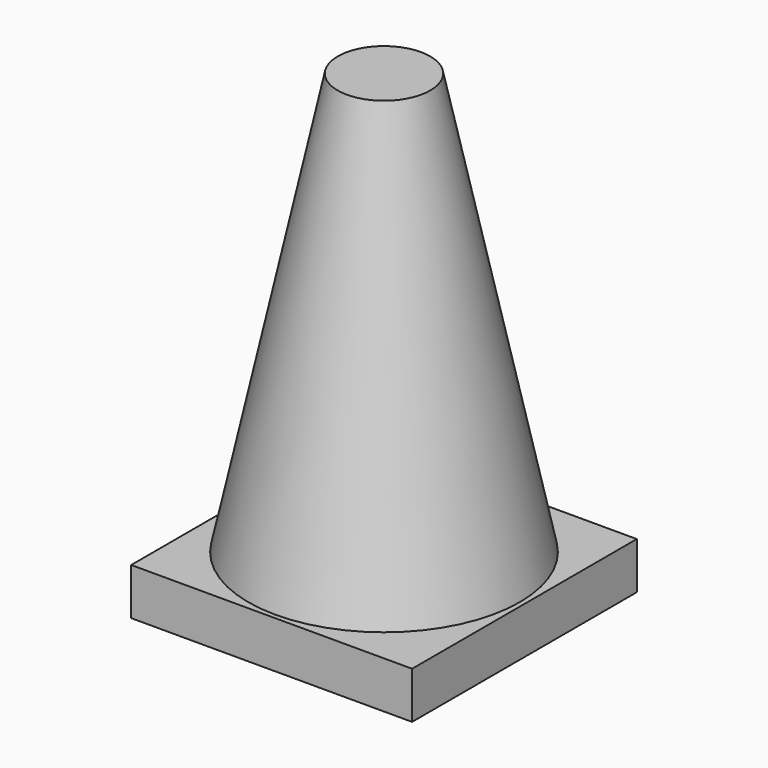
from build123d import *

# Parameters (mm, degrees)
F2_DEPTH = 15
F3_R     = 14.5033016781
F4_DEPTH = 45
F4_TAPER = 12


with BuildPart() as f2:
    # F1 (on Front) → F2 (new body, symmetric)
    with BuildSketch(Plane.XZ):
        Polygon((-12.5, 2.5), (-15, 2.5), (-15, -2.5), (15, -2.5), (15, 2.5), (12.5, 2.5), (0, 2.5), align=None)
    extrude(amount=F2_DEPTH, both=True)

    # F3 (on face) → F4 (join)
    with BuildSketch(Plane.XY.offset(2.5)):
        Circle(F3_R)
    extrude(amount=F4_DEPTH, taper=F4_TAPER)


solid = f2.part
